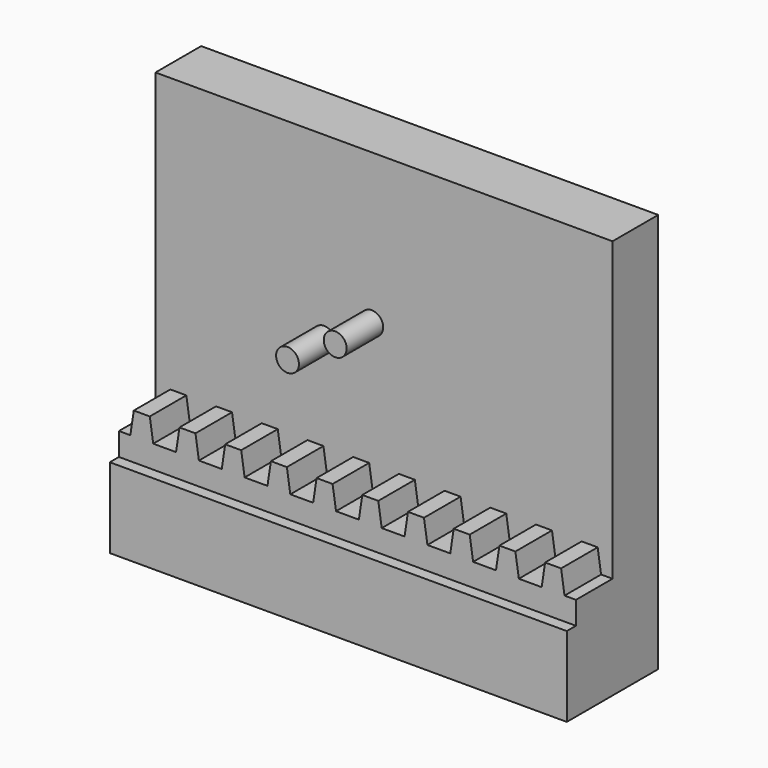
from build123d import *

# Parameters (mm, degrees)
F0_W     = 40
F0_H     = 35
F1_DEPTH = 10
F2_W     = 40
F2_H     = 30
F3_DEPTH = 5
F4_W     = 1
F4_H     = 2
F5_DEPTH = 40
F6_R     = 1
F7_DEPTH = 4
F9_DEPTH = 4


with BuildPart() as f1:
    # F0 (on Front) → F1 (new body)
    with BuildSketch(Plane.XZ):
        Rectangle(F0_W, F0_H)
    extrude(amount=F1_DEPTH)

    # F2 (on face) → F3 (cut)
    with BuildSketch(Plane.XZ.offset(10)):
        with Locations((0, 2.5)):
            Rectangle(F2_W, F2_H)
    extrude(amount=-F3_DEPTH, mode=Mode.SUBTRACT)

    # F4 (on face) → F5 (join, through all)
    with BuildSketch(Plane.YZ.offset(20)):
        with Locations((-9.5, -11.5)):
            Rectangle(F4_W, F4_H)
    extrude(amount=-F5_DEPTH)

    # F6 (on face) → F7 (join)
    with BuildSketch(Plane.XZ.offset(5)):
        with Locations((-1.07176, 4.339809)):
            Circle(F6_R)
        with Locations((-5.244032, 1.778612)):
            Circle(F6_R)
    extrude(amount=F7_DEPTH)

    # F8 (on face) → F9 (join)
    with BuildSketch(Plane.XZ.offset(5)):
        Polygon((-20, -12.5), (20, -12.5), (20, -8.5), (19, -8.5), (17, -8.5), (15, -8.5), (13, -8.5), (11, -8.5), (9, -8.5), (7, -8.5), (5, -8.5), (3, -8.5), (1, -8.5), (-1, -8.5), (-3, -8.5), (-5, -8.5), (-7, -8.5), (-9, -8.5), (-11, -8.5), (-13, -8.5), (-15, -8.5), (-17, -8.5), (-19, -8.5), (-20, -8.5), align=None)
        Polygon((17, -8.5), (19, -8.5), (18.7, -6.5), (18, -6.5), (17.3, -6.5), align=None)
        Polygon((-18.7, -6.5), (-19, -8.5), (-17, -8.5), (-17.3, -6.5), (-18, -6.5), align=None)
        Polygon((13, -8.5), (15, -8.5), (14.7, -6.5), (14, -6.5), (13.3, -6.5), align=None)
        Polygon((-14.7, -6.5), (-15, -8.5), (-13, -8.5), (-13.3, -6.5), (-14, -6.5), align=None)
        Polygon((9, -8.5), (11, -8.5), (10.7, -6.5), (10, -6.5), (9.3, -6.5), align=None)
        Polygon((-10.7, -6.5), (-11, -8.5), (-9, -8.5), (-9.3, -6.5), (-10, -6.5), align=None)
        Polygon((5, -8.5), (7, -8.5), (6.7, -6.5), (6, -6.5), (5.3, -6.5), align=None)
        Polygon((-6.7, -6.5), (-7, -8.5), (-5, -8.5), (-5.3, -6.5), (-6, -6.5), align=None)
        Polygon((1, -8.5), (3, -8.5), (2.7, -6.5), (2, -6.5), (1.3, -6.5), align=None)
        Polygon((-2.7, -6.5), (-3, -8.5), (-1, -8.5), (-1.3, -6.5), (-2, -6.5), align=None)
    extrude(amount=F9_DEPTH)


with BuildPart() as f10_1:
    # F10: copy of F1
    add(f1.part)


solid = f10_1.part
